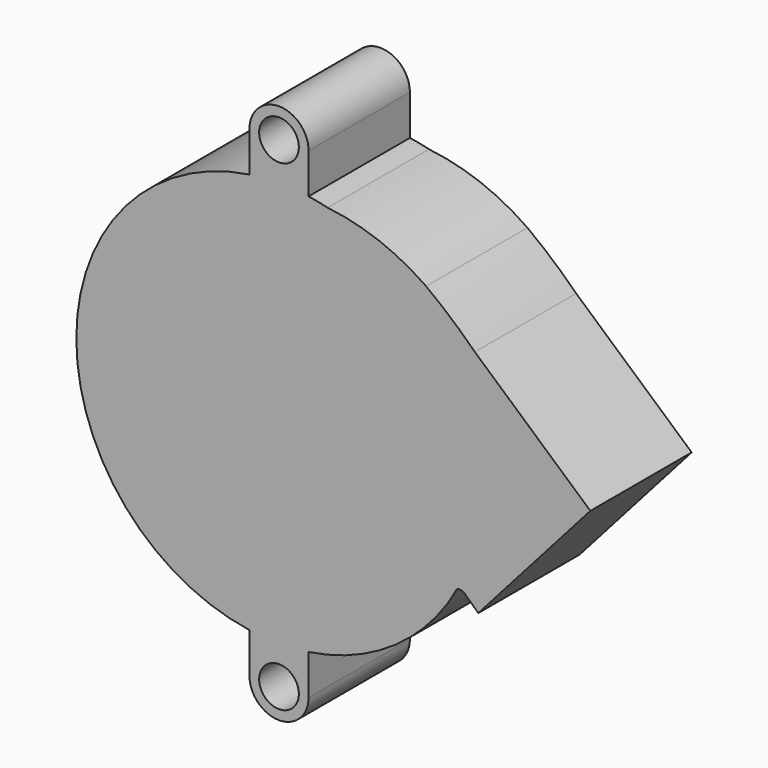
from build123d import *

# Parameters (mm, degrees)
F0_R     = 2.35
F1_DEPTH = 15
F2_R     = 16
F3_DEPTH = 10


with BuildPart() as f1:
    # F0 (on Front) → F1 (new body)
    with BuildSketch(Plane.XZ):
        with BuildLine():
            ThreePointArc((21.096646, -11.442532), (23.262841, -5.902563), (24, 0))
            ThreePointArc((24, 0), (18.897184, 14.795149), (5.758629, 23.298888))
            ThreePointArc((5.758629, 23.298888), (4.634647, 23.548249), (3.5, 23.74342))
            ThreePointArc((3.5, 23.74342), (0, 24), (-3.5, 23.74342))
            ThreePointArc((-3.5, 23.74342), (-24, 0), (-3.5, -23.74342))
            ThreePointArc((-3.5, -23.74342), (0, -24), (3.5, -23.74342))
            ThreePointArc((3.5, -23.74342), (13.750517, -19.670366), (21.096646, -11.442532))
        make_face()
        with BuildLine():
            ThreePointArc((5.758629, 23.298888), (18.897184, 14.795149), (24, 0))
            ThreePointArc((24, 0), (23.262841, -5.902563), (21.096646, -11.442532))
            ThreePointArc((21.096646, -11.442532), (21.59127, -11.447206), (22.024536, -11.685861))
            Line((22.024536, -11.685861), (23.600347, -13.155328))
            Line((23.600347, -13.155328), (36.865279, 1.812691))
            Line((36.865279, 1.812691), (23.191403, 13.93073))
            ThreePointArc((23.191403, 13.93073), (20.393602, 16.52262), (17.417733, 18.907947))
            ThreePointArc((17.417733, 18.907947), (11.864216, 21.836364), (5.758629, 23.298888))
        make_face()
        with BuildLine():
            ThreePointArc((-3.5, 23.74342), (0, 24), (3.5, 23.74342))
            Line((3.5, 23.74342), (3.5, 28.5))
            ThreePointArc((3.5, 28.5), (0, 32), (-3.5, 28.5))
            Line((-3.5, 28.5), (-3.5, 23.74342))
        make_face()
        with Locations((0, 28.5)):
            Circle(F0_R, mode=Mode.SUBTRACT)
        with BuildLine():
            Line((3.5, -28.5), (3.5, -23.74342))
            ThreePointArc((3.5, -23.74342), (0, -24), (-3.5, -23.74342))
            Line((-3.5, -23.74342), (-3.5, -28.5))
            ThreePointArc((-3.5, -28.5), (0, -32), (3.5, -28.5))
        make_face()
        with Locations((0, -28.5)):
            Circle(F0_R, mode=Mode.SUBTRACT)
    extrude(amount=F1_DEPTH)

    # F2 (on face) → F3 (cut)
    with BuildSketch(Plane(origin=(0, 0, 0), x_dir=(-1, 0, 0), z_dir=(0, 1, 0))):
        with Locations((0, -2.023614)):
            Circle(F2_R)
    extrude(amount=-F3_DEPTH, mode=Mode.SUBTRACT)


solid = f1.part
